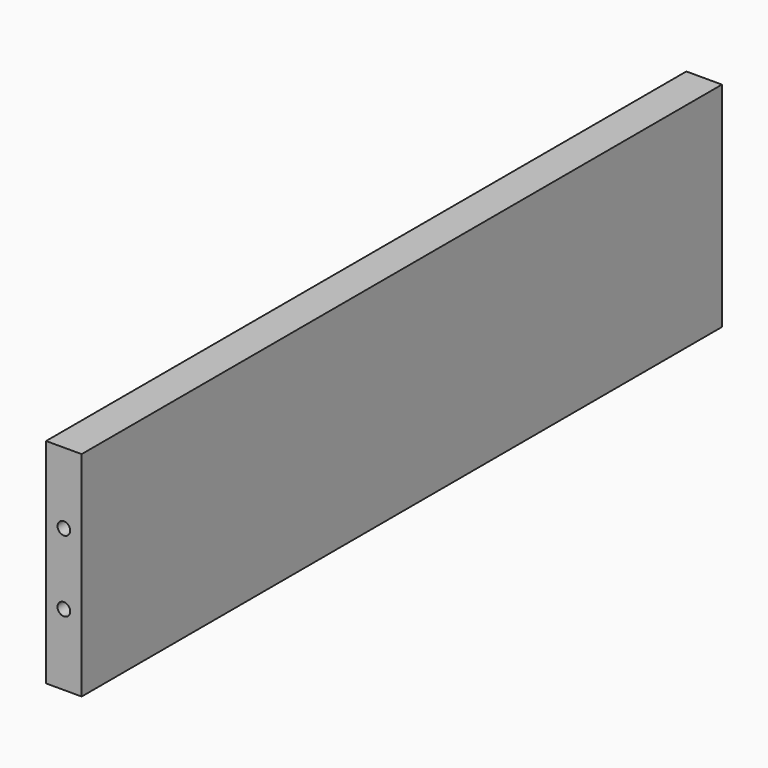
from build123d import *

# Parameters (mm, degrees)
F0_W           = 6.35
F0_H           = 142.875
F1_DEPTH       = 38.1
F3_D           = 2.7051
F3_DEPTH       = 15.0876
F3_TIP         = 0.8126940303
F6_D           = 2.2606
F6_DEPTH       = 13.7414
F6_TIP         = 0.6791527577
F6_ON_F4_D     = 2.2606
F6_ON_F4_DEPTH = 13.7414
F6_ON_F4_TIP   = 0.6791527577


with BuildPart() as f1:
    # F0 (on Top) → F1 (new body)
    with BuildSketch(Plane.XY):
        Rectangle(F0_W, F0_H)
    extrude(amount=F1_DEPTH)

    # F3
    with Locations(Plane(origin=(0, 0, 0), x_dir=(1, 0, 0), z_dir=(0, 0, -1))):
        with Locations((0, 46.0375), (0, -46.0375)):
            Hole(F3_D / 2, depth=F3_DEPTH)
            with Locations((0, 0, -(F3_DEPTH + F3_TIP / 2))):  # 118° drill point
                Cone(0, F3_D / 2, F3_TIP, mode=Mode.SUBTRACT)

    # F6
    with Locations(Plane.XZ.offset(71.4375)):
        with Locations((0, 25.4), (0, 12.7)):
            Hole(F6_D / 2, depth=F6_DEPTH)
            with Locations((0, 0, -(F6_DEPTH + F6_TIP / 2))):  # 118° drill point
                Cone(0, F6_D / 2, F6_TIP, mode=Mode.SUBTRACT)

    # F6 on F4
    with Locations(Plane(origin=(0, 71.4375, 0), x_dir=(-1, 0, 0), z_dir=(0, 1, 0))):
        with Locations((0, 31.75), (0, 6.35)):
            Hole(F6_ON_F4_D / 2, depth=F6_ON_F4_DEPTH)
            with Locations((0, 0, -(F6_ON_F4_DEPTH + F6_ON_F4_TIP / 2))):  # 118° drill point
                Cone(0, F6_ON_F4_D / 2, F6_ON_F4_TIP, mode=Mode.SUBTRACT)


solid = f1.part
